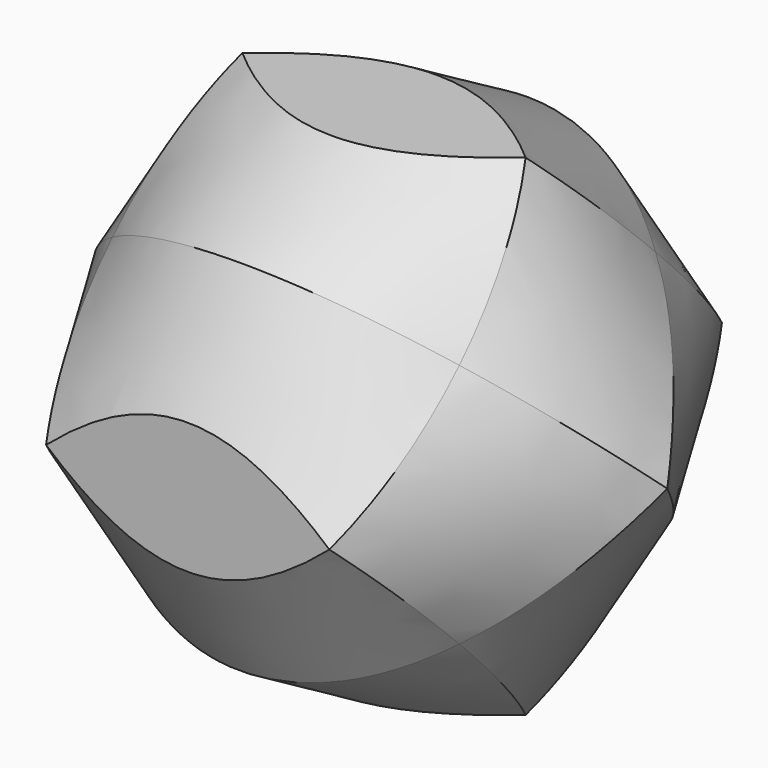
from build123d import *


with BuildPart() as f1:
    # F0 (on Front) → F1 (revolve)
    with BuildSketch(Plane.XZ):
        Polygon((20, -34.641016), (40, 0), (20, 34.641016), (0, 34.641016), (0, -34.641016), align=None)
    revolve(axis=Axis((0, 0, 0), (0, 0, 1)))

    # F2 (on Right) → F3 (revolve, cut)
    with BuildSketch(Plane.YZ):
        Polygon((42.017564, 40), (0, 40), (34.641016, 20), (34.641016, 0), (42.017564, 0), align=None)
        Polygon((-34.641016, 20), (0, 40), (-42.017564, 40), (-42.017564, 0), (-34.641016, 0), align=None)
    revolve(axis=Axis((0, 46.956183, 0), (0, 1, 0)), mode=Mode.SUBTRACT)


solid = f1.part
